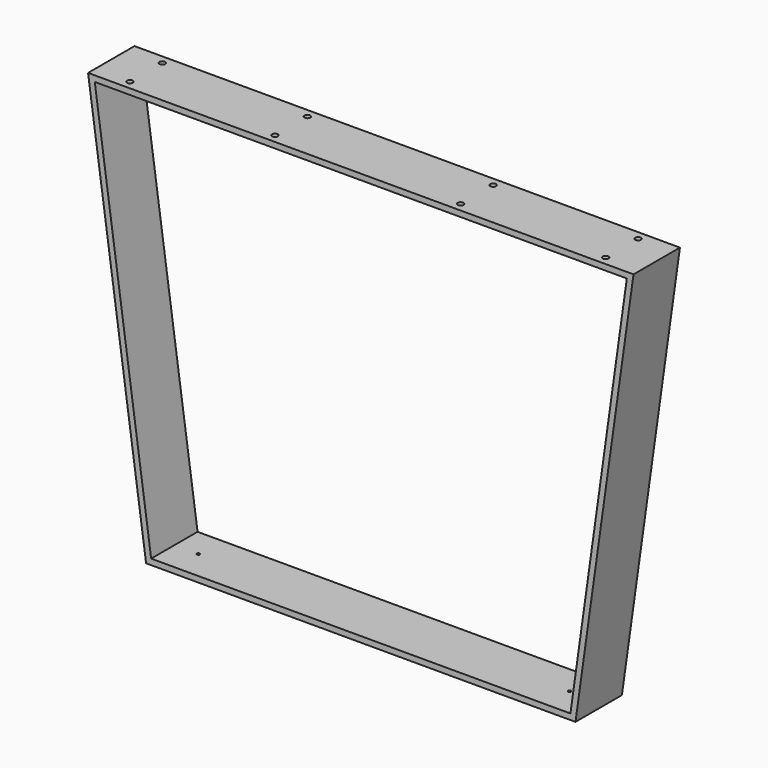
from build123d import *

# Parameters (mm, degrees)
F1_DEPTH = 100
F3_D     = 5
F3_DEPTH = 15
F3_TIP   = 1.5021515476
F5_D     = 10
F5_DEPTH = 15
F5_TIP   = 3.0043030951


with BuildPart() as f1:
    # F0 (on Front) → F1 (new body)
    with BuildSketch(Plane.XZ):
        Polygon((470, 336.5369722384), (-470, 336.5369722384), (-370, -375), (370, -375), align=None)
        Polygon((-458.4963159278, 326.5369722384), (458.4963159278, 326.5369722384), (361.3071326218, -365), (-361.3071326218, -365), align=None, mode=Mode.SUBTRACT)
    extrude(amount=F1_DEPTH)

    # F3
    with Locations(Plane(origin=(0, 0, -375), x_dir=(1, 0, 0), z_dir=(0, 0, -1))):
        with Locations((-320, 50), (320, 50)):
            Hole(F3_D / 2, depth=F3_DEPTH)
            with Locations((0, 0, -(F3_DEPTH + F3_TIP / 2))):  # 118° drill point
                Cone(0, F3_D / 2, F3_TIP, mode=Mode.SUBTRACT)

    # F5
    with Locations(Plane.XY.offset(336.5369722384)):
        with Locations((-410, -15), (-410, -85), (-160, -15), (-160, -85), (160, -85), (160, -15), (410, -15), (410, -85)):
            Hole(F5_D / 2, depth=F5_DEPTH)
            with Locations((0, 0, -(F5_DEPTH + F5_TIP / 2))):  # 118° drill point
                Cone(0, F5_D / 2, F5_TIP, mode=Mode.SUBTRACT)


solid = f1.part
